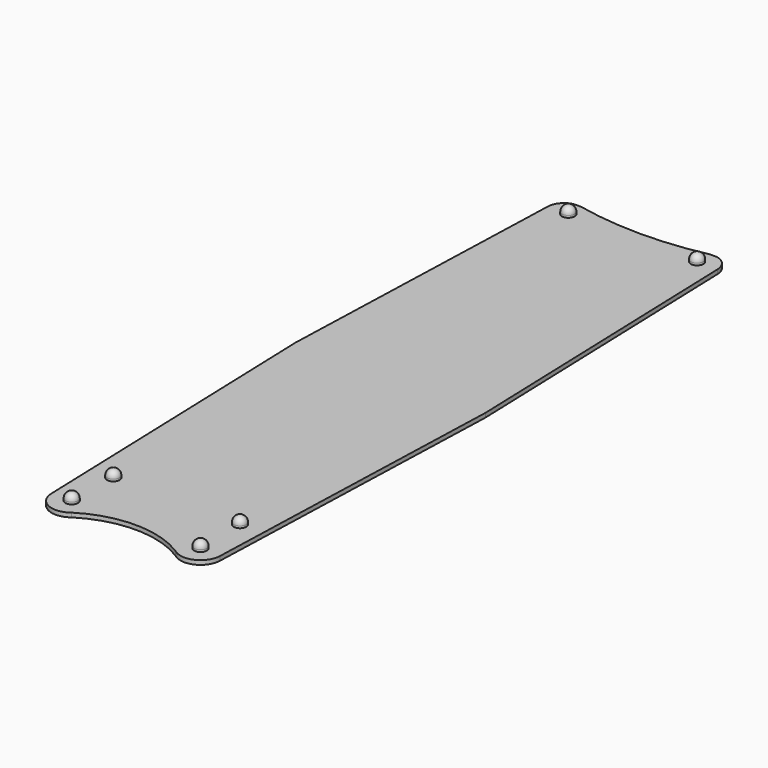
from build123d import *

# Parameters (mm, degrees)
F0_R     = 1.5
F1_DEPTH = 2
F2_DEPTH = 1
F3_R     = 1.5


with BuildPart() as f1:
    # F0 (on Top) → F1 (new body)
    with BuildSketch(Plane.XY):
        with Locations((15.119787, -70.86451)):
            Circle(F0_R)
        with Locations((14.869787, -58.86451)):
            Circle(F0_R)
        with Locations((-15.380213, -70.86451)):
            Circle(F0_R)
        with Locations((-15.130213, -58.86451)):
            Circle(F0_R)
        with Locations((15.119787, 76.13549)):
            Circle(F0_R)
        with Locations((-15.380213, 76.13549)):
            Circle(F0_R)
    extrude(amount=F1_DEPTH)

    # F3
    f3_edges = [f1.edges().sort_by_distance(p)[0] for p in [
        (13.619787, 76.13549, 2),
        (-16.880213, 76.13549, 2),
        (13.369787, -58.86451, 2),
        (13.619787, -70.86451, 2),
        (-16.630213, -58.86451, 2),
        (-16.880213, -70.86451, 2),
    ]]
    fillet(f3_edges, radius=F3_R)


with BuildPart() as f2:
    # F0 (on Top) → F2 (new body)
    with BuildSketch(Plane.XY):
        with BuildLine():
            ThreePointArc((-17.127601, 79.893801), (-19.325559, 78.546167), (-20.23977, 76.13549))
            Line((-20.23977, 76.13549), (-22.630213, 4.435727))
            Line((-22.630213, 4.435727), (-20.114469, -71.022348))
            ThreePointArc((-20.114469, -71.022348), (-17.370904, -75.162794), (-12.438595, -74.577322))
            ThreePointArc((-12.438595, -74.577322), (-0.130213, -71.022348), (12.178169, -74.577322))
            ThreePointArc((12.178169, -74.577322), (17.110477, -75.162794), (19.854043, -71.022348))
            Line((19.854043, -71.022348), (22.369787, 4.435727))
            Line((22.369787, 4.435727), (19.979344, 76.13549))
            ThreePointArc((19.979344, 76.13549), (19.065133, 78.546167), (16.867174, 79.893801))
            Line((16.867174, 79.893801), (15.119787, 79.893801))
            ThreePointArc((15.119787, 79.893801), (7.536639, 78.694896), (-0.130213, 78.293801))
            ThreePointArc((-0.130213, 78.293801), (-7.797066, 78.694896), (-15.380213, 79.893801))
            Line((-15.380213, 79.893801), (-17.127601, 79.893801))
        make_face()
        with Locations((-15.380213, -70.86451)):
            Circle(F0_R, mode=Mode.SUBTRACT)
        with Locations((-15.130213, -58.86451)):
            Circle(F0_R, mode=Mode.SUBTRACT)
        with Locations((15.119787, -70.86451)):
            Circle(F0_R, mode=Mode.SUBTRACT)
        with Locations((14.869787, -58.86451)):
            Circle(F0_R, mode=Mode.SUBTRACT)
        with Locations((-15.380213, 76.13549)):
            Circle(F0_R, mode=Mode.SUBTRACT)
        with Locations((15.119787, 76.13549)):
            Circle(F0_R, mode=Mode.SUBTRACT)
        with Locations((-15.130213, -58.86451)):
            Circle(F0_R)
        with Locations((-15.380213, -70.86451)):
            Circle(F0_R)
        with Locations((15.119787, -70.86451)):
            Circle(F0_R)
        with Locations((14.869787, -58.86451)):
            Circle(F0_R)
        with Locations((15.119787, 76.13549)):
            Circle(F0_R)
        with Locations((-15.380213, 76.13549)):
            Circle(F0_R)
    extrude(amount=-F2_DEPTH)


solid = Compound([f1.part, f2.part])
